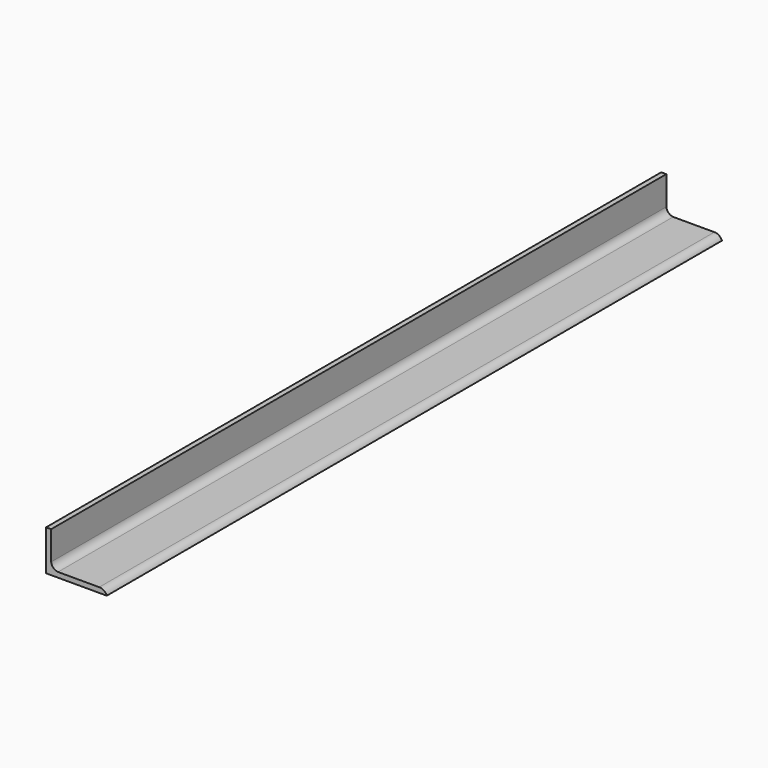
from build123d import *

# Parameters (mm, degrees)
F1_DEPTH = 482.6


with BuildPart() as f1:
    # F0 (on Front) → F1 (new body)
    with BuildSketch(Plane.XZ):
        with BuildLine():
            Line((0, 3.175), (0, 0))
            Line((0, 0), (3.175, 0))
            Line((3.175, 0), (38.1, 0))
            ThreePointArc((38.1, 0), (36.240032, 2.366723), (33.340454, 3.175))
            Line((33.340454, 3.175), (7.492549, 3.175))
            ThreePointArc((7.492549, 3.175), (4.622316, 4.490768), (3.175, 7.296968))
            Line((3.175, 7.296968), (3.175, 25.4))
            Line((3.175, 25.4), (0, 25.4))
            Line((0, 25.4), (0, 3.175))
        make_face()
    extrude(amount=F1_DEPTH)


solid = f1.part
